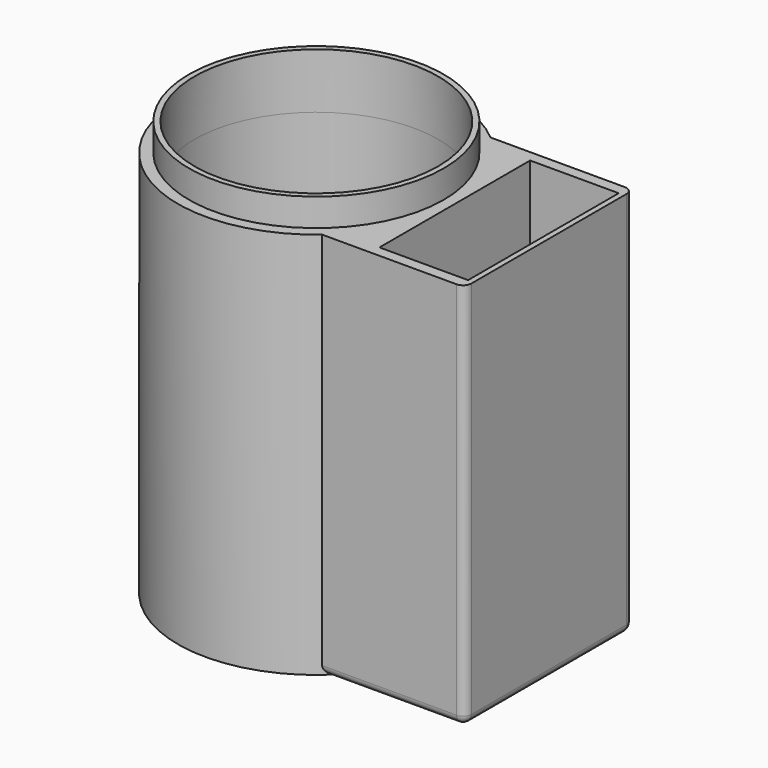
from build123d import *

# Parameters (mm, degrees)
CYLINDER003_R     = 24
CYLINDER003_DEPTH = 10
CYLINDER001_R     = 22
CYLINDER001_DEPTH = 78
CYLINDER_R        = 25
CYLINDER_DEPTH    = 70
BOX_W             = 16
BOX_H             = 34
BOX_DEPTH         = 70
BOX001_W          = 26
BOX001_H          = 38
BOX001_DEPTH      = 70
FILLET_R          = 1.5
CYLINDER005_R     = 22
CYLINDER005_DEPTH = 21
CYLINDER006_R     = 23
CYLINDER006_DEPTH = 10


with BuildPart() as cilindro003:
    # Cylinder003 → Cylinder003 (new body)
    with BuildSketch(Plane.XY):
        Circle(CYLINDER003_R)
    extrude(amount=CYLINDER003_DEPTH)


with BuildPart() as cilindro001:
    # Cylinder001 → Cylinder001 (new body)
    with BuildSketch(Plane.XY):
        Circle(CYLINDER001_R)
    extrude(amount=CYLINDER001_DEPTH)


with BuildPart() as cilindro:
    # Cylinder → Cylinder (new body)
    with BuildSketch(Plane.XY):
        Circle(CYLINDER_R)
    extrude(amount=CYLINDER_DEPTH)


with BuildPart() as cubo:
    # Box → Box (new body)
    with BuildSketch(Plane(origin=(25, -17, 1), x_dir=(1, 0, 0), z_dir=(0, 0, 1))):
        with Locations((8, 17)):
            Rectangle(BOX_W, BOX_H)
    extrude(amount=BOX_DEPTH)


with BuildPart() as cut004:
    # Box001 → Box001 (new body)
    with BuildSketch(Plane(origin=(16, -19, 0), x_dir=(1, 0, 0), z_dir=(0, 0, 1))):
        with Locations((13, 19)):
            Rectangle(BOX001_W, BOX001_H)
    extrude(amount=BOX001_DEPTH)

    # Fillet
    fillet_edges = [cut004.edges().sort_by_distance(p)[0] for p in [
        (42, -19, 35),
        (42, 19, 35),
        (42, 0, 0),
        (29, -19, 0),
        (29, 19, 0),
    ]]
    fillet(fillet_edges, radius=FILLET_R)

    # Cut: cut Cubo
    add(cubo.part, mode=Mode.SUBTRACT)

    # Fusion: union Cilindro
    add(cilindro.part)

    # Cut003: cut Cilindro001
    add(cilindro001.part, mode=Mode.SUBTRACT)

    # Cut004: cut Cilindro003
    add(cilindro003.part, mode=Mode.SUBTRACT)


with BuildPart() as cilindro005:
    # Cylinder005 → Cylinder005 (new body)
    with BuildSketch(Plane.XY):
        Circle(CYLINDER005_R)
    extrude(amount=CYLINDER005_DEPTH)


with BuildPart() as cut005:
    # Cylinder006 → Cylinder006 (new body)
    with BuildSketch(Plane.XY):
        Circle(CYLINDER006_R)
    extrude(amount=CYLINDER006_DEPTH)

    # Cut005: cut Cilindro005
    add(cilindro005.part, mode=Mode.SUBTRACT)


with BuildPart() as cut005_1:
    # Cut005 placement: moved
    add(cut005.part.moved(Location((0, 0, 65))))


solid = Compound([cut004.part, cut005_1.part])
